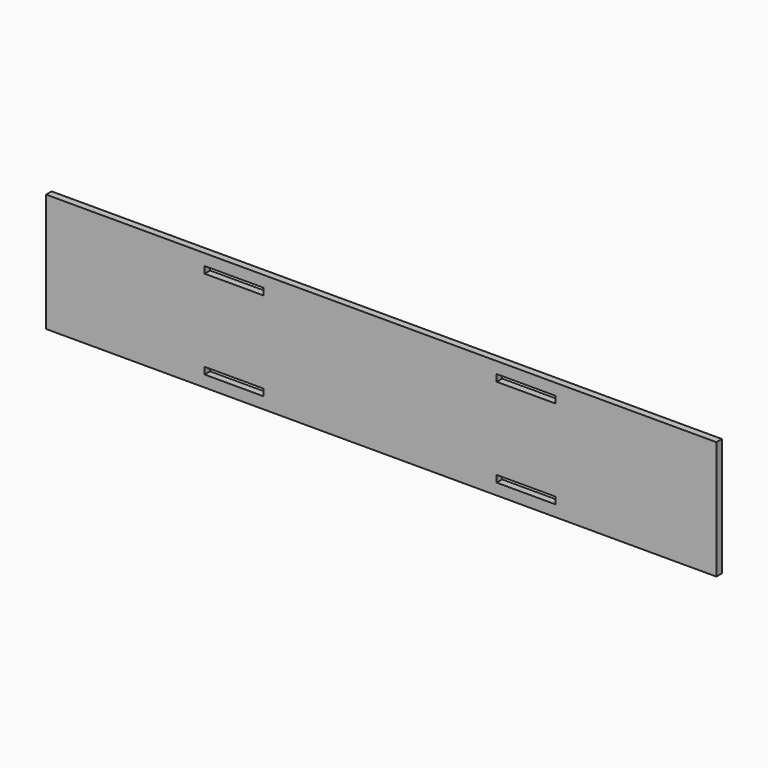
from build123d import *

# Parameters (mm, degrees)
F0_W     = 287.6804
F0_H     = 50.8
F0_W_2   = 25.273
F0_H_2   = 2.921
F1_DEPTH = 2.9718


with BuildPart() as f1:
    # F0 (on Front) → F1 (new body)
    with BuildSketch(Plane.XZ):
        with Locations((-1.868061, 0)):
            Rectangle(F0_W, F0_H)
        with Locations((-65.025161, -19.0119)):
            Rectangle(F0_W_2, F0_H_2, mode=Mode.SUBTRACT)
        with Locations((60.323839, -19.0881)):
            Rectangle(F0_W_2, F0_H_2, mode=Mode.SUBTRACT)
        with Locations((-65.025161, 19.0881)):
            Rectangle(F0_W_2, F0_H_2, mode=Mode.SUBTRACT)
        with Locations((60.323839, 19.0119)):
            Rectangle(F0_W_2, F0_H_2, mode=Mode.SUBTRACT)
    extrude(amount=F1_DEPTH)


solid = f1.part
